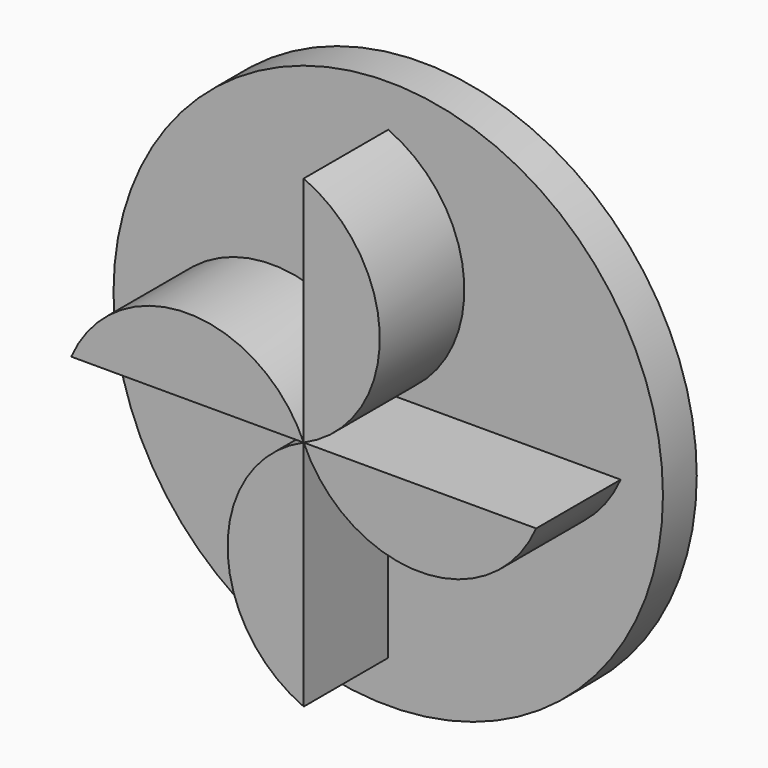
from build123d import *

# Parameters (mm, degrees)
F0_R     = 65
F1_DEPTH = 10
F3_DEPTH = 25


with BuildPart() as f1:
    # F0 (on Front) → F1 (new body)
    with BuildSketch(Plane.XZ):
        Circle(F0_R)
    extrude(amount=F1_DEPTH)


with BuildPart() as f3:
    # F2 (on face) → F3 (new body)
    with BuildSketch(Plane.XZ.offset(10)):
        with BuildLine():
            Line((0, 55), (0, 0))
            ThreePointArc((0, 0), (18.010421, 27.5), (0, 55))
        make_face()
        with BuildLine():
            Line((55, 0), (0, 0))
            ThreePointArc((0, 0), (27.5, -18.010421), (55, 0))
        make_face()
        with BuildLine():
            Line((0, -55), (0, 0))
            ThreePointArc((0, 0), (-18.010421, -27.5), (0, -55))
        make_face()
        with BuildLine():
            Line((-55, 0), (0, 0))
            ThreePointArc((0, 0), (-27.5, 18.010421), (-55, 0))
        make_face()
    extrude(amount=F3_DEPTH)


solid = Compound([f1.part, f3.part])
